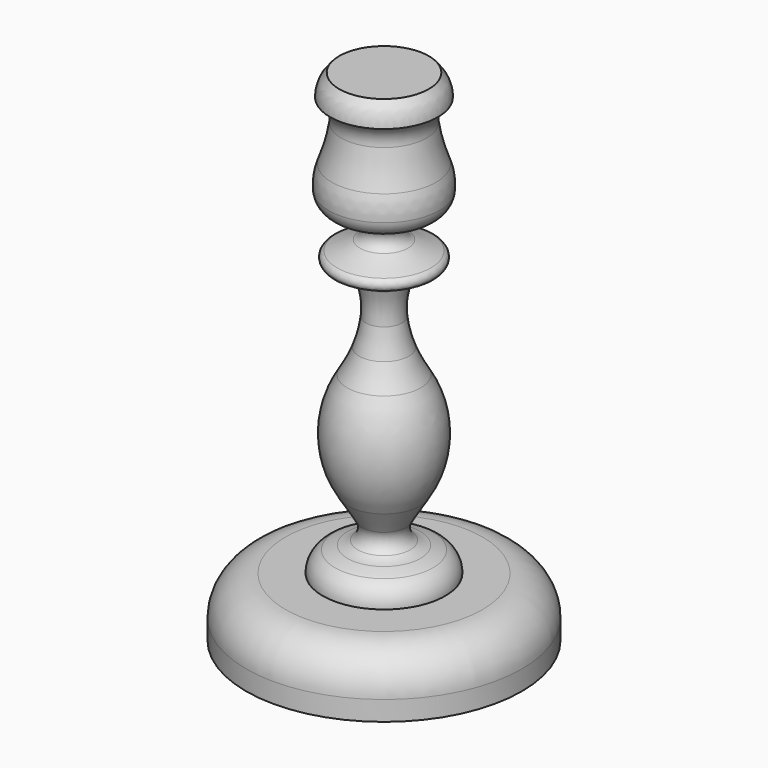
from build123d import *

# Parameters (mm, degrees)
F2_R = 3


with BuildPart() as f1:
    # F0 (on Front) → F1 (revolve)
    with BuildSketch(Plane.XZ):
        with BuildLine():
            Line((84.1324161716, 284.3588808628), (61.3887900272, 284.3588808628))
            ThreePointArc((61.3887900272, 284.3588808628), (57.9406103582, 279.3153588306), (56.7896589637, 273.3151614666))
            ThreePointArc((56.7896589637, 273.3151614666), (61.3510322179, 268.5815983947), (62.4188733837, 262.0952696516))
            ThreePointArc((62.4188733837, 262.0952696516), (60.5752526409, 252.8529125694), (57.6706855737, 243.8872228563))
            ThreePointArc((57.6706855737, 243.8872228563), (56.1300857268, 237.9635073102), (56.0057499876, 231.8439979848))
            ThreePointArc((56.0057499876, 231.8439979848), (58.0297296325, 226.8098485674), (62.4536201358, 223.6684560776))
            ThreePointArc((62.4536201358, 223.6684560776), (67.2649898221, 221.8159778375), (71.9324573874, 219.6260690689))
            ThreePointArc((71.9324573874, 219.6260690689), (74.934330947, 214.7107124329), (71.9324573874, 209.7953557968))
            ThreePointArc((71.9324573874, 209.7953557968), (61.7688185166, 205.2788378272), (51.1633530259, 201.9288241863))
            ThreePointArc((51.1633530259, 201.9288241863), (60.8861145031, 198.9083581692), (70.2479437022, 194.9069259568))
            ThreePointArc((70.2479437022, 194.9069259568), (71.7280286816, 193.8026219039), (72.7063282874, 192.2363943124))
            ThreePointArc((72.7063282874, 192.2363943124), (74.8249570323, 183.9506362901), (74.8745930799, 175.3984488491))
            ThreePointArc((74.8745930799, 175.3984488491), (73.6172305248, 168.4177475315), (71.5095326167, 161.6450995257))
            ThreePointArc((71.5095326167, 161.6450995257), (68.7814475811, 155.4062650512), (65.4588096462, 149.4627323715))
            ThreePointArc((65.4588096462, 149.4627323715), (57.9336962373, 122.9977578807), (65.6944070791, 96.6009100794))
            ThreePointArc((65.6944070791, 96.6009100794), (69.3843542563, 90.6400886042), (72.9164561548, 84.5844004509))
            ThreePointArc((72.9164561548, 84.5844004509), (73.6526159734, 79.539778309), (70.7948411626, 75.318017188))
            ThreePointArc((70.7948411626, 75.318017188), (68.3173008568, 73.9572785471), (65.6129941372, 73.1347575556))
            ThreePointArc((65.6129941372, 73.1347575556), (62.3859368242, 72.278282), (59.3039169902, 70.9943026307))
            ThreePointArc((59.3039169902, 70.9943026307), (54.6241365165, 66.6556305637), (53.0279708814, 60.4769028749))
            Line((53.0279708814, 60.4769028749), (84.1324161716, 60.4769028749))
            Line((84.1324161716, 60.4769028749), (84.1324161716, 284.3588808628))
        make_face()
    revolve(axis=Axis((84.1324161716, 0, 172.4178918689), (0, 0, -1)))

    # F2
    f2_edges = [f1.edges().sort_by_distance(p)[0] for p in [
        (117.101479, 0, 201.928824),
    ]]
    fillet(f2_edges, radius=F2_R)


with BuildPart() as f4:
    # F3 (on Front) → F4 (revolve)
    with BuildSketch(Plane.XZ):
        with BuildLine():
            Line((134.1324161716, 60.4769028749), (84.1324161716, 60.4769028749))
            Line((84.1324161716, 60.4769028749), (84.1324161716, 30.4769028749))
            Line((84.1324161716, 30.4769028749), (154.1324161716, 30.4769028749))
            Line((154.1324161716, 30.4769028749), (154.1324161716, 40.4769028749))
            ThreePointArc((154.1324161716, 40.4769028749), (148.2745517953, 54.6190384987), (134.1324161716, 60.4769028749))
        make_face()
    revolve(axis=Axis((84.1324161716, 0, 37.6531225642), (0, 0, -1)))


solid = Compound([f1.part, f4.part])
